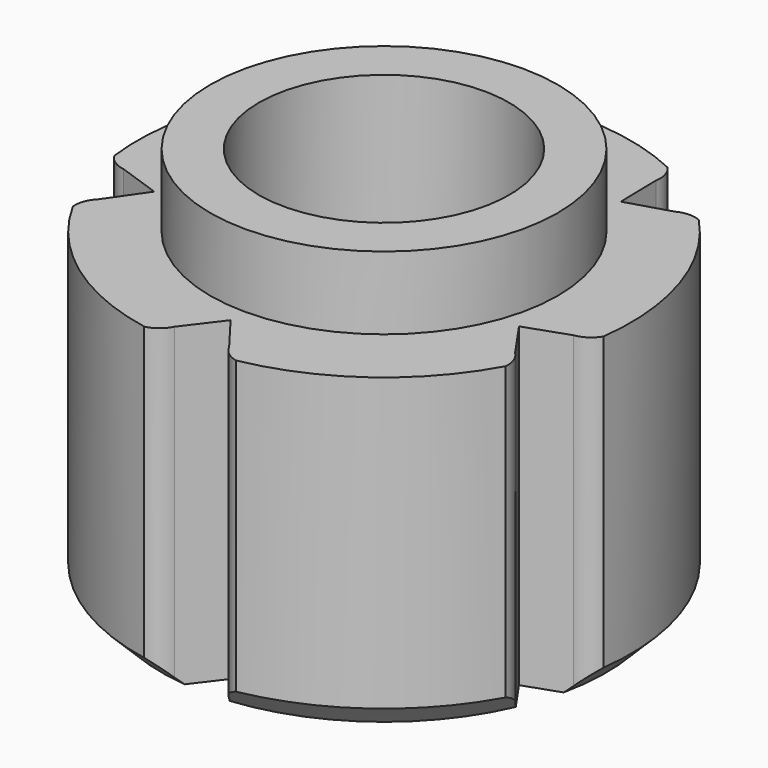
from build123d import *

# Parameters (mm, degrees)
F3_DEPTH = 16.001
F4_SIZE  = 1


with BuildPart() as f1:
    # F0 (on Front) → F1 (revolve)
    with BuildSketch(Plane.XZ):
        Polygon((-10.15, 13), (-10.15, 0), (0, 0), (0, 1), (-3.15, 1), (-3.15, 8), (-5.15, 8), (-5.15, 16), (-7.15, 16), (-7.15, 13), align=None)
    revolve(axis=Axis((0, 0, -8.6291319943), (0, 0, -1)))

    # F2 (on Top) → F3 (cut, through all)
    with BuildSketch(Plane.XY):
        with BuildLine():
            Line((0, -7.8913969919), (-1.1252094373, -9.3733511499))
            ThreePointArc((-1.1252094373, -9.3733511499), (-1.4401892892, -9.7634180213), (-1.8953023246, -9.9737429991))
            ThreePointArc((-1.8953023246, -9.9737429991), (0, -11.3207029958), (1.8953023246, -9.9737429991))
            ThreePointArc((1.8953023246, -9.9737429991), (1.4401892892, -9.7634180213), (1.1252094373, -9.3733511499))
            Line((1.1252094373, -9.3733511499), (0, -7.8913969919))
        make_face()
        with BuildLine():
            Line((7.5051645318, -2.4385757799), (8.5668778523, -3.9666625671))
            ThreePointArc((8.5668778523, -3.9666625671), (8.8405193649, -4.3867634999), (8.8999126434, -4.8845957104))
            ThreePointArc((8.8999126434, -4.8845957104), (10.7666283532, -3.498289614), (10.0712738989, -1.2795164581))
            ThreePointArc((10.0712738989, -1.2795164581), (9.7306052959, -1.6473606836), (9.2622955289, -1.826387032))
            Line((9.2622955289, -1.826387032), (7.5051645318, -2.4385757799))
        make_face()
        with BuildLine():
            Line((4.6384467718, 6.3842742758), (6.4198311274, 6.9218188615))
            ThreePointArc((6.4198311274, 6.9218188615), (6.9039307349, 7.0522490777), (7.3957508351, 6.9548968288))
            ThreePointArc((7.3957508351, 6.9548968288), (6.6541422665, 9.1586411119), (4.329087255, 9.1829583388))
            ThreePointArc((4.329087255, 9.1829583388), (4.5736555148, 8.7452931271), (4.5992040135, 8.2445818874))
            Line((4.5992040135, 8.2445818874), (4.6384467718, 6.3842742758))
        make_face()
        with BuildLine():
            Line((-4.6384467718, 6.3842742758), (-4.5992040135, 8.2445818874))
            ThreePointArc((-4.5992040135, 8.2445818874), (-4.5736555148, 8.7452931271), (-4.329087255, 9.1829583388))
            ThreePointArc((-4.329087255, 9.1829583388), (-6.6541422665, 9.1586411119), (-7.3957508351, 6.9548968288))
            ThreePointArc((-7.3957508351, 6.9548968288), (-6.9039307349, 7.0522490777), (-6.4198311274, 6.9218188615))
            Line((-6.4198311274, 6.9218188615), (-4.6384467718, 6.3842742758))
        make_face()
        with BuildLine():
            Line((-7.5051645318, -2.4385757799), (-9.2622955289, -1.826387032))
            ThreePointArc((-9.2622955289, -1.826387032), (-9.7306052959, -1.6473606836), (-10.0712738989, -1.2795164581))
            ThreePointArc((-10.0712738989, -1.2795164581), (-10.7666283532, -3.498289614), (-8.8999126434, -4.8845957104))
            ThreePointArc((-8.8999126434, -4.8845957104), (-8.8405193649, -4.3867634999), (-8.5668778523, -3.9666625671))
            Line((-8.5668778523, -3.9666625671), (-7.5051645318, -2.4385757799))
        make_face()
    extrude(amount=F3_DEPTH, mode=Mode.SUBTRACT)

    # F4
    f4_edges = [f1.edges().sort_by_distance(p)[0] for p in [
        (-5.96602, -8.211522, 0),
        (5.96602, -8.211522, 0),
        (9.653224, 3.136522, 0),
        (0, 10.15, 0),
        (-9.653224, 3.136522, 0),
    ]]
    chamfer(f4_edges, length=F4_SIZE)


solid = f1.part
